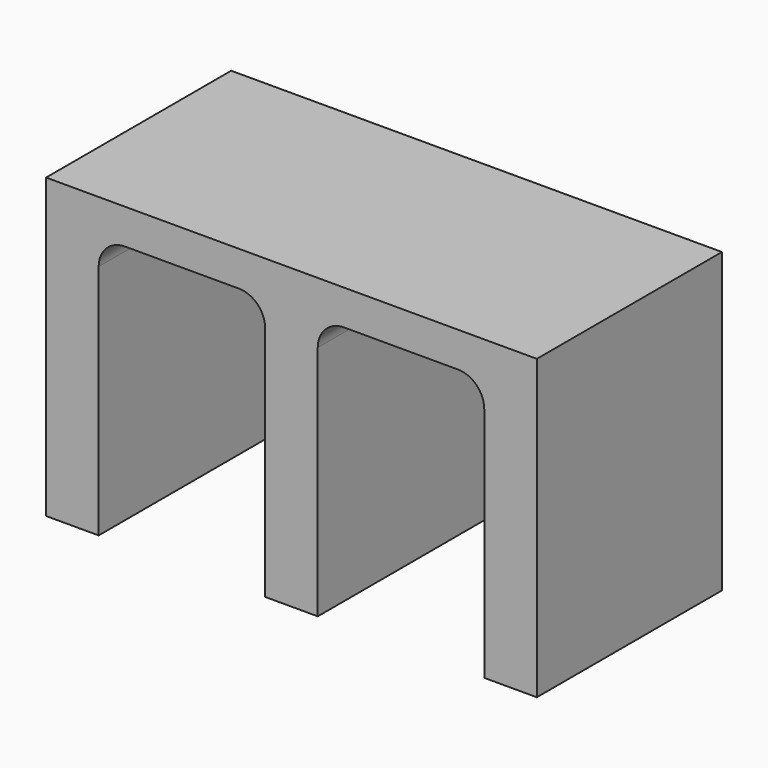
from build123d import *

# Parameters (mm, degrees)
F0_W     = 280
F0_H     = 132
F1_DEPTH = 20
F2_W     = 30
F2_H     = 132
F3_DEPTH = 150
F4_R     = 15
F5_R     = 15


with BuildPart() as f1:
    # F0 (on Top) → F1 (new body)
    with BuildSketch(Plane.XY):
        with Locations((-3.179513, -33.939106)):
            Rectangle(F0_W, F0_H)
    extrude(amount=F1_DEPTH)

    # F2 (on face) → F3 (join)
    with BuildSketch(Plane(origin=(0, 0, 0), x_dir=(1, 0, 0), z_dir=(0, 0, -1))):
        with Locations((121.820487, 33.939106)):
            Rectangle(F2_W, F2_H)
        with Locations((-3.179513, 33.939106)):
            Rectangle(F2_W, F2_H)
        with Locations((-128.179513, 33.939106)):
            Rectangle(F2_W, F2_H)
    extrude(amount=F3_DEPTH)

    # F4
    f4_edges = [f1.edges().sort_by_distance(p)[0] for p in [
        (106.820487, -33.939106, 0),
        (-18.179513, -33.939106, 0),
    ]]
    fillet(f4_edges, radius=F4_R)

    # F5
    f5_edges = [f1.edges().sort_by_distance(p)[0] for p in [
        (-113.179513, -33.939106, 0),
        (11.820487, -33.939106, 0),
    ]]
    fillet(f5_edges, radius=F5_R)


solid = f1.part
